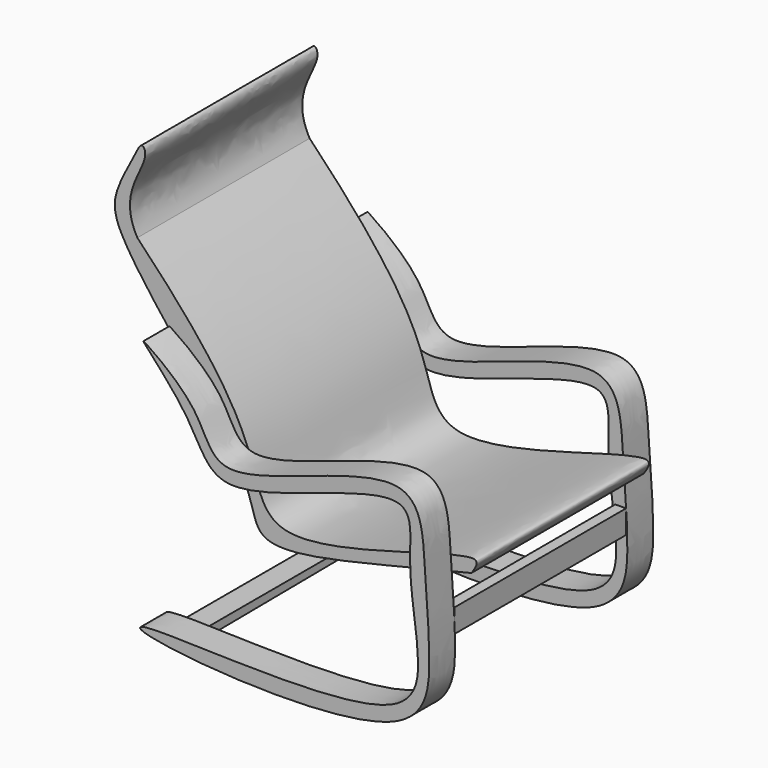
from build123d import *

# Parameters (mm, degrees)
F1_DEPTH  = 60
F4_DEPTH  = 9
F8_W      = 59.8005205393
F8_H      = 6.5353279933
F9_DEPTH  = 3
F12_DEPTH = 6.4


with BuildPart() as f1:
    # F0 (on Front) → F1 (new body)
    with BuildSketch(Plane.XZ):
        with BuildLine():
            add(Edge.make_bspline(
                [(-48.1582314342, 69.894860807), (-47.0757446211, 72.4068629836), (-42.9852995036, 67.732253289), (-53.9777919365, 58.5671826952), (-48.1582314342, 48.3626536065)],
                knots=[0, 0, 0, 0, 0.2408288734, 1, 1, 1, 1], degree=3))
            add(Edge.make_bspline(
                [(-48.1582314342, 69.894860807), (-53.9777919365, 58.5671826952), (-60.1484499117, 50.6298178955), (-14.9924322715, 2.2428328564), (-16.6388713454, -20.0454953853), (10.7919805234, -11.8556902301), (44.9174871102, -3.6059327252)],
                knots=[0, 0, 0, 0, 0.1968513488, 0.5191398414, 0.6781039024, 1, 1, 1, 1], degree=3))
            add(Edge.make_bspline(
                [(-48.1582314342, 48.3626536065), (-25.2905618399, 24.6989689767), (-16.0878134668, 7.2645944272), (-10.9255744427, -18.6466619123), (41.9065900287, 1.7035542465), (47.5292944337, 0), (44.9174871102, -3.6059327252)],
                knots=[0, 0, 0, 0, 0.3644846114, 0.5568381289, 0.9050036686, 1, 1, 1, 1], degree=3))
        make_face()
    extrude(amount=F1_DEPTH)

    # F3 (on offset) → F4 (join)
    with BuildSketch(Plane.XZ.offset(60)):
        with BuildLine():
            add(Edge.make_bspline(
                [(-38.5557616188, 29.1824545043), (-36.2096345064, 27.7028428104), (-22.3044847539, 17.9134569597), (-19.6425202688, -2.8913581062), (37.8655066062, 28.1039514756), (38.9589841699, -1.6408151776), (41.0482735684, -22.4126978765), (38.6330476946, -50.6364539475), (-40.3030473926, -43.7587647721), (-40.328449077, -38.3685825123), (35.5687824575, -46.1570424478), (38.3082170985, -22.1379791319), (33.6733488111, -1.6883394979), (37.9928441442, 22.5612346005), (-19.5975157331, -6.7071185059), (-24.1834966847, 14.2491234622), (-40.6548278968, 30.367601052), (-39.0455339079, 29.4913349577), (-38.5557616188, 29.1824545043)],
                knots=[0, 0, 0, 0, 0.0568308084, 0.1076958336, 0.2002941668, 0.2570868343, 0.3208103925, 0.3818536036, 0.4931630728, 0.5045872143, 0.6146122344, 0.6703730473, 0.733615866, 0.7821461403, 0.8740514358, 0.9298690138, 0.9881361266, 1, 1, 1, 1], degree=3))
        make_face()
    extrude(amount=F4_DEPTH)

    # F6: F1 across plane


with BuildPart() as f1_1:
    add(f1.part)
    add(f1.part.mirror(Plane.XZ.offset(30)))

    # F8 (on offset) → F9 (join)
    with BuildSketch(Plane.YZ.offset(40)):
        with Locations((-29.9002602696, -17.0039595105)):
            Rectangle(F8_W, F8_H)
    extrude(amount=-F9_DEPTH)

    # F11 (on offset) → F12 (join)
    with BuildSketch(Plane.YZ.offset(-34.8)):
        Polygon((-59.9557496607, -40.6020581722), (-59.9557496607, -43.0029965937), (0, -42.484100908), (0, -40.6020581722), align=None)
    extrude(amount=F12_DEPTH)


solid = f1_1.part
